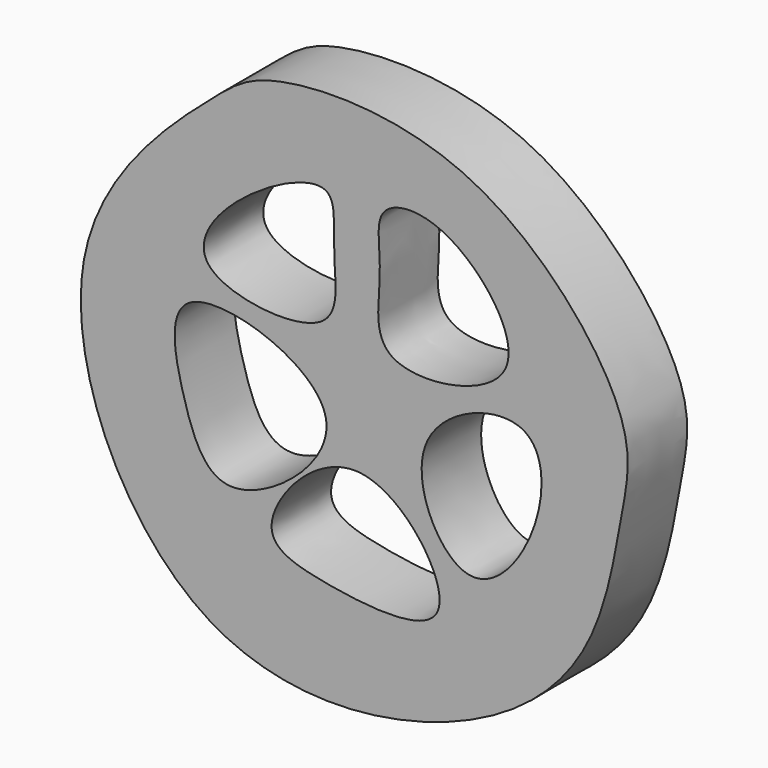
from build123d import *

# Parameters (mm, degrees)
F1_DEPTH = 8


with BuildPart() as f1:
    # F0 (on Front) → F1 (new body)
    with BuildSketch(Plane.XZ):
        with BuildLine():
            add(Edge.make_bspline(
                [(-19.9926439673, 39.365850389), (-18.7797711252, 35.8352207647), (-20.112754659, 30.0998025239), (-22.2669997346, 15.7173730294), (-35.6107045451, 2.961458872), (-68.0028217066, -1.0295733326), (-84.9285930277, 36.8185652771), (-64.2523509468, 55.1809745621), (-58.2175439834, 60.2184968115), (-34.7193167619, 60.5236310992), (-21.9332176227, 45.0147911506), (-19.9926439673, 39.365850389)],
                knots=[0, 0, 0, 0, 0.0784941342, 0.172442609, 0.2793416844, 0.4142229512, 0.560981909, 0.6850103373, 0.756650718, 0.8744108669, 1, 1, 1, 1], degree=3))
        make_face()
        with BuildLine():
            add(Edge.make_bspline(
                [(-51.784709096, 29.0670134127), (-52.762626018, 33.6435454992), (-70.0256050177, 39.5937843311), (-67.2912118698, 25.6279831221), (-63.1096405141, 15.0805858276), (-50.8617535608, 24.747693923), (-51.784709096, 29.0670134127)],
                knots=[0, 0, 0, 0, 0.2888058688, 0.5132488715, 0.7274257464, 1, 1, 1, 1], degree=3))
        make_face(mode=Mode.SUBTRACT)
        with BuildLine():
            add(Edge.make_bspline(
                [(-48.2024997473, 25.037035346), (-52.8415826498, 25.4577249411), (-60.9661972575, 15.8054430055), (-51.9874539554, 13.0322561643), (-34.0163826309, 11.1858625755), (-43.3845283061, 24.6001234612), (-48.2024997473, 25.037035346)],
                knots=[0, 0, 0, 0, 0.2650757307, 0.461997399, 0.7247026347, 1, 1, 1, 1], degree=3))
        make_face(mode=Mode.SUBTRACT)
        with BuildLine():
            add(Edge.make_bspline(
                [(-30.7392608374, 34.8880961537), (-33.598528064, 36.2270723655), (-45.4857815141, 31.7260778295), (-36.9452340139, 14.6066249106), (-27.94148211, 25.4665560849), (-28.1926811704, 33.6955494887), (-30.7392608374, 34.8880961537)],
                knots=[0, 0, 0, 0, 0.2612342961, 0.525042644, 0.7673341125, 1, 1, 1, 1], degree=3))
        make_face(mode=Mode.SUBTRACT)
        with BuildLine():
            add(Edge.make_bspline(
                [(-51.784709096, 50.5602397025), (-50.6019570288, 49.9014717969), (-51.3867830894, 44.9519674422), (-49.2459977631, 35.5904414496), (-68.2552586255, 37.6677382901), (-61.887710273, 47.3960353101), (-53.4055702392, 51.4630251045), (-51.784709096, 50.5602397025)],
                knots=[0, 0, 0, 0, 0.1607803737, 0.3467658533, 0.5870259151, 0.7796641684, 1, 1, 1, 1], degree=3))
        make_face(mode=Mode.SUBTRACT)
        with BuildLine():
            add(Edge.make_bspline(
                [(-45.5158501863, 50.5602397025), (-46.4856466264, 49.3513622372), (-45.2962380546, 44.7709613812), (-47.8323369552, 34.3528785071), (-26.6905593357, 37.749001098), (-37.8834002713, 52.4168513322), (-44.4756572259, 51.8568683324), (-45.5158501863, 50.5602397025)],
                knots=[0, 0, 0, 0, 0.1628795619, 0.3502963055, 0.5875263068, 0.8252971792, 1, 1, 1, 1], degree=3))
        make_face(mode=Mode.SUBTRACT)
    extrude(amount=F1_DEPTH)


solid = f1.part
